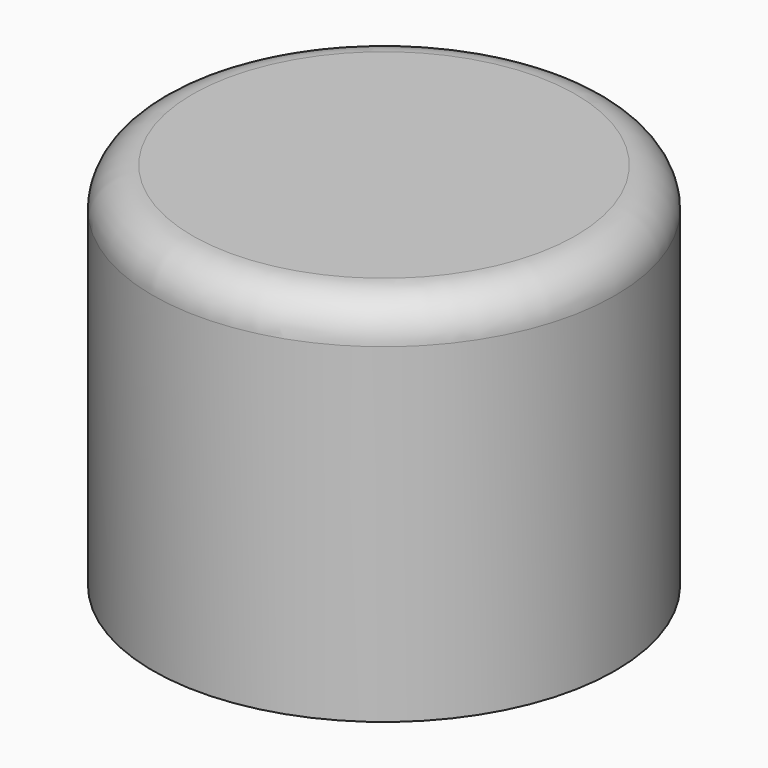
from build123d import *

# Parameters (mm, degrees)
F0_R     = 17.5
F1_DEPTH = 28
F2_DEPTH = 22
F3_R     = 3


with BuildPart() as f1:
    # F0 (on Top) → F1 (new body)
    with BuildSketch(Plane.XY):
        Circle(F0_R)
        Polygon((-11.25, 6.4951905284), (0, 12.9903810568), (11.25, 6.4951905284), (11.25, -6.4951905284), (0, -12.9903810568), (-11.25, -6.4951905284), align=None, mode=Mode.SUBTRACT)
        Polygon((11.25, 6.4951905284), (0, 12.9903810568), (-11.25, 6.4951905284), (-11.25, -6.4951905284), (0, -12.9903810568), (11.25, -6.4951905284), align=None)
    extrude(amount=F1_DEPTH)

    # F0 (on Top) → F2 (cut)
    with BuildSketch(Plane.XY):
        Polygon((11.25, 6.4951905284), (0, 12.9903810568), (-11.25, 6.4951905284), (-11.25, -6.4951905284), (0, -12.9903810568), (11.25, -6.4951905284), align=None)
    extrude(amount=F2_DEPTH, mode=Mode.SUBTRACT)

    # F3
    f3_edges = [f1.edges().sort_by_distance(p)[0] for p in [
        (-17.5, 0, 28),
    ]]
    fillet(f3_edges, radius=F3_R)


solid = f1.part
